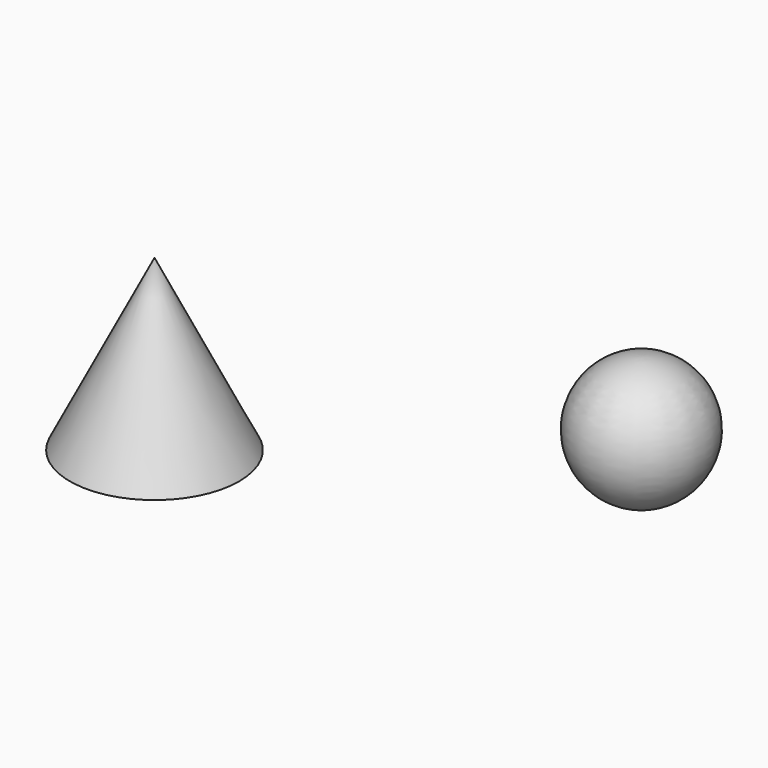
from build123d import *

# Parameters (mm, degrees)
F2_T = -2.54


with BuildPart() as f1:
    # F0 (on Front) → F1 (revolve)
    with BuildSketch(Plane.XZ):
        Polygon((-14.8257220492, -7.0019767167), (-40.2257220492, 43.7980222063), (-40.2257220492, -7.0019767167), align=None)
    revolve(axis=Axis((-40.2257220492, 0, 18.3980227448), (0, 0, -1)))

    # F2
    f2_openings = [f1.faces().sort_by_distance(p)[0] for p in [
        (-40.225722, 0, -7.001977),
    ]]
    offset(amount=F2_T, openings=f2_openings)


with BuildPart() as f4:
    # F3 (on Front) → F4 (revolve)
    with BuildSketch(Plane.XZ):
        with BuildLine():
            Line((105.825108949, 26.8988187408), (105.825108949, 64.9973184525))
            ThreePointArc((105.825108949, 64.9973184525), (86.9441649437, 45.9480685966), (105.825108949, 26.8988187408))
        make_face()
    revolve(axis=Axis((105.825108949, 0, 45.9480685966), (0, 0, -1)))


solid = Compound([f1.part, f4.part])
